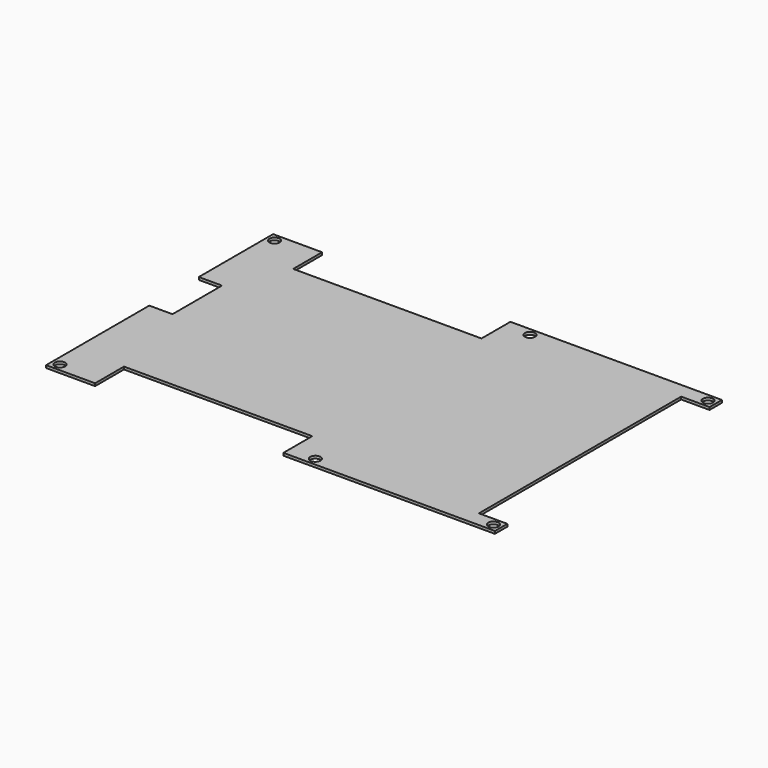
from build123d import *

# Parameters (mm, degrees)
F1_W     = 174
F1_H     = 110
F2_DEPTH = 1
F3_W     = 73
F3_H     = 14
F3_W_2   = 9
F3_H_2   = 24
F3_W_3   = 11
F3_H_3   = 98
F4_DEPTH = 25
F6_D     = 4


with BuildPart() as f2:
    # F1 (on Top) → F2 (new body)
    with BuildSketch(Plane.XY):
        Rectangle(F1_W, F1_H)
    extrude(amount=F2_DEPTH)

    # F3 (on face) → F4 (cut)
    with BuildSketch(Plane.XY.offset(1)):
        with Locations((-31.5, 48)):
            Rectangle(F3_W, F3_H)
        with Locations((-31.5, -48)):
            Rectangle(F3_W, F3_H)
        with Locations((-82.5, 7)):
            Rectangle(F3_W_2, F3_H_2)
        with Locations((81.5, 0)):
            Rectangle(F3_W_3, F3_H_3)
    extrude(amount=-F4_DEPTH, mode=Mode.SUBTRACT)

    # F6 (through all)
    with Locations(Plane.XY.offset(1)):
        with Locations((-84, 52), (15, -52), (15, 52), (84, 52), (84, -52), (-84, -52)):
            Hole(F6_D / 2)


solid = f2.part
